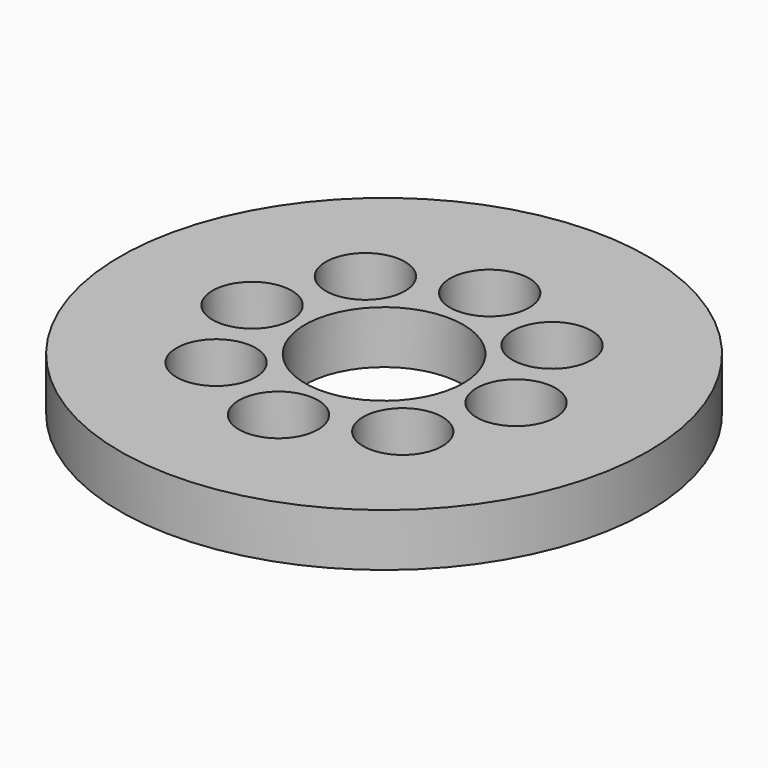
from build123d import *

# Parameters (mm, degrees)
F0_R      = 15.875
F0_R_2    = 4.7625
F1_DEPTH  = 3.175
F3_DEPTH  = 6.35
F4_R      = 15.875
F4_R_2    = 4.7625
F5_DEPTH  = 3.175
F6_R      = 2.38125
F7_DEPTH  = 25.4
F8_R      = 2.38125
F8_R_2    = 1.5875
F9_DEPTH  = 25.4
F10_DEPTH = 3.175
F11_DEPTH = 6.35


with BuildPart() as f1:
    # F0 (on Top) → F1 (new body)
    with BuildSketch(Plane.XY):
        Circle(F0_R)
        Circle(F0_R_2, mode=Mode.SUBTRACT)
    extrude(amount=F1_DEPTH)


with BuildPart() as f3:
    # F2 (on face) → F3 (new body)
    with BuildSketch(Plane.XY.offset(3.175)):
        with BuildLine():
            ThreePointArc((-2.38125, 5.1952741446), (0, 5.715), (2.38125, 5.1952741446))
            Line((2.38125, 5.1952741446), (2.38125, 6.35))
            Line((2.38125, 6.35), (-2.38125, 6.35))
            Line((-2.38125, 6.35), (-2.38125, 5.1952741446))
        make_face()
        with BuildLine():
            Line((2.38125, -6.35), (2.38125, -5.1952741446))
            ThreePointArc((2.38125, -5.1952741446), (0, -5.715), (-2.38125, -5.1952741446))
            Line((-2.38125, -5.1952741446), (-2.38125, -6.35))
            Line((-2.38125, -6.35), (2.38125, -6.35))
        make_face()
        with BuildLine():
            ThreePointArc((-2.38125, 4.1244459855), (0, 4.7625), (2.38125, 4.1244459855))
            Line((2.38125, 4.1244459855), (2.38125, 5.1952741446))
            ThreePointArc((2.38125, 5.1952741446), (0, 5.715), (-2.38125, 5.1952741446))
            Line((-2.38125, 5.1952741446), (-2.38125, 4.1244459855))
        make_face()
        with BuildLine():
            ThreePointArc((2.38125, 4.1244459855), (3.3675960454, 3.3675960454), (4.1244459855, 2.38125))
            Line((4.1244459855, 2.38125), (5.1952741446, 2.38125))
            ThreePointArc((5.1952741446, 2.38125), (4.0411152545, 4.0411152545), (2.38125, 5.1952741446))
            Line((2.38125, 5.1952741446), (2.38125, 4.1244459855))
        make_face()
        with BuildLine():
            ThreePointArc((-2.38125, 4.1244459855), (0, 4.7625), (2.38125, 4.1244459855))
            Line((2.38125, 4.1244459855), (2.38125, 5.1952741446))
            ThreePointArc((2.38125, 5.1952741446), (0, 5.715), (-2.38125, 5.1952741446))
            Line((-2.38125, 5.1952741446), (-2.38125, 4.1244459855))
        make_face()
        with BuildLine():
            ThreePointArc((2.38125, 4.1244459855), (3.3675960454, 3.3675960454), (4.1244459855, 2.38125))
            Line((4.1244459855, 2.38125), (5.1952741446, 2.38125))
            ThreePointArc((5.1952741446, 2.38125), (4.0411152545, 4.0411152545), (2.38125, 5.1952741446))
            Line((2.38125, 5.1952741446), (2.38125, 4.1244459855))
        make_face()
        with BuildLine():
            Line((2.38125, -5.1952741446), (2.38125, -4.1244459855))
            ThreePointArc((2.38125, -4.1244459855), (0, -4.7625), (-2.38125, -4.1244459855))
            Line((-2.38125, -4.1244459855), (-2.38125, -5.1952741446))
            ThreePointArc((-2.38125, -5.1952741446), (0, -5.715), (2.38125, -5.1952741446))
        make_face()
        with BuildLine():
            Line((-2.38125, -5.1952741446), (-2.38125, -4.1244459855))
            ThreePointArc((-2.38125, -4.1244459855), (-3.3675960454, -3.3675960454), (-4.1244459855, -2.38125))
            Line((-4.1244459855, -2.38125), (-5.1952741446, -2.38125))
            ThreePointArc((-5.1952741446, -2.38125), (-4.0411152545, -4.0411152545), (-2.38125, -5.1952741446))
        make_face()
        with BuildLine():
            ThreePointArc((-4.1244459855, -2.38125), (-4.7625, 0), (-4.1244459855, 2.38125))
            Line((-4.1244459855, 2.38125), (-5.1952741446, 2.38125))
            ThreePointArc((-5.1952741446, 2.38125), (-5.715, 0), (-5.1952741446, -2.38125))
            Line((-5.1952741446, -2.38125), (-4.1244459855, -2.38125))
        make_face()
        with BuildLine():
            ThreePointArc((-4.1244459855, 2.38125), (-3.3675960454, 3.3675960454), (-2.38125, 4.1244459855))
            Line((-2.38125, 4.1244459855), (-2.38125, 5.1952741446))
            ThreePointArc((-2.38125, 5.1952741446), (-4.0411152545, 4.0411152545), (-5.1952741446, 2.38125))
            Line((-5.1952741446, 2.38125), (-4.1244459855, 2.38125))
        make_face()
        with BuildLine():
            ThreePointArc((-5.1952741446, -2.38125), (-5.715, 0), (-5.1952741446, 2.38125))
            Line((-5.1952741446, 2.38125), (-6.35, 2.38125))
            Line((-6.35, 2.38125), (-6.35, -2.38125))
            Line((-6.35, -2.38125), (-5.1952741446, -2.38125))
        make_face()
    extrude(amount=F3_DEPTH)



with BuildPart() as f3b:
    # F2 (on face) → F3, piece 2 (new body)
    with BuildSketch(Plane.XY.offset(3.175)):
        with BuildLine():
            Line((6.35, 2.38125), (5.1952741446, 2.38125))
            ThreePointArc((5.1952741446, 2.38125), (5.5835569638, 1.2186536144), (5.715, 0))
            ThreePointArc((5.715, 0), (5.5835569638, -1.2186536144), (5.1952741446, -2.38125))
            Line((5.1952741446, -2.38125), (6.35, -2.38125))
            Line((6.35, -2.38125), (6.35, 2.38125))
        make_face()
    extrude(amount=F3_DEPTH)


with BuildPart() as f3_1:
    add(f3.part)

    add(f3b.part)  # F5 merges F3b
    # F4 (on face) → F5 (join)
    with BuildSketch(Plane.XY.offset(9.525)):
        Circle(F4_R)
        Circle(F4_R_2, mode=Mode.SUBTRACT)
    extrude(amount=F5_DEPTH)


with BuildPart() as f7_tool:
    # F6 (on face) → F7 (new body)
    with BuildSketch(Plane.XY.offset(12.7)):
        with Locations((-5.6126600757, 5.6126600757)):
            Circle(F6_R)
        with Locations((5.6126600757, -5.6126600757)):
            Circle(F6_R)
        with Locations((0, 7.9375)):
            Circle(F6_R)
        with Locations((5.6126600757, 5.6126600757)):
            Circle(F6_R)
        with Locations((7.9375, 0)):
            Circle(F6_R)
        with Locations((0, -7.9375)):
            Circle(F6_R)
        with Locations((-5.6126600757, -5.6126600757)):
            Circle(F6_R)
        with Locations((-7.9375, 0)):
            Circle(F6_R)
    extrude(amount=-F7_DEPTH)


with BuildPart() as f1_1:
    add(f1.part)

    # F7: cut by f7_tool
    add(f7_tool.part, mode=Mode.SUBTRACT)

    # F8 (on face) → F9 (cut)
    with BuildSketch(Plane(origin=(0, 0, 0), x_dir=(1, 0, 0), z_dir=(0, 0, -1))):
        with Locations((0, 7.9375)):
            Circle(F8_R)
        with Locations((0, 7.9375)):
            Circle(F8_R_2, mode=Mode.SUBTRACT)
        with Locations((5.6126600757, 5.6126600757)):
            Circle(F8_R)
        with Locations((5.6126600757, 5.6126600757)):
            Circle(F8_R_2, mode=Mode.SUBTRACT)
        with Locations((7.9375, 0)):
            Circle(F8_R)
        with Locations((7.9375, 0)):
            Circle(F8_R_2, mode=Mode.SUBTRACT)
        with Locations((5.6126600757, -5.6126600757)):
            Circle(F8_R)
        with Locations((5.6126600757, -5.6126600757)):
            Circle(F8_R_2, mode=Mode.SUBTRACT)
        with Locations((0, -7.9375)):
            Circle(F8_R)
        with Locations((0, -7.9375)):
            Circle(F8_R_2, mode=Mode.SUBTRACT)
        with Locations((-5.6126600757, -5.6126600757)):
            Circle(F8_R)
        with Locations((-5.6126600757, -5.6126600757)):
            Circle(F8_R_2, mode=Mode.SUBTRACT)
        with Locations((-7.9375, 0)):
            Circle(F8_R)
        with Locations((-7.9375, 0)):
            Circle(F8_R_2, mode=Mode.SUBTRACT)
        with Locations((-5.6126600757, 5.6126600757)):
            Circle(F8_R)
        with Locations((-5.6126600757, 5.6126600757)):
            Circle(F8_R_2, mode=Mode.SUBTRACT)
        with Locations((7.9375, 0)):
            Circle(F8_R_2)
        with Locations((5.6126600757, -5.6126600757)):
            Circle(F8_R_2)
        with Locations((0, -7.9375)):
            Circle(F8_R_2)
        with Locations((-5.6126600757, -5.6126600757)):
            Circle(F8_R_2)
        with Locations((-7.9375, 0)):
            Circle(F8_R_2)
        with Locations((-5.6126600757, 5.6126600757)):
            Circle(F8_R_2)
        with Locations((0, 7.9375)):
            Circle(F8_R_2)
        with Locations((5.6126600757, 5.6126600757)):
            Circle(F8_R_2)
    extrude(amount=-F9_DEPTH, mode=Mode.SUBTRACT)


with BuildPart() as f3_2:
    add(f3_1.part)

    # F7: cut by f7_tool
    add(f7_tool.part, mode=Mode.SUBTRACT)

    # F10 (cut): a face of the model
    f10_faces = [f3_2.faces().sort_by_distance(p)[0] for p in [
        (-15.4259871939, 0, 12.7),
    ]]
    extrude(f10_faces, amount=-F10_DEPTH, mode=Mode.SUBTRACT)

    # F11 (cut): faces of the model
    f11_faces = [f3_2.faces().sort_by_distance(p)[0] for p in [
        (5.820119134, -1.8463906572, 9.525),
        (-3.8074982703, -3.8074982703, 9.525),
        (5.820119134, 1.8463906572, 9.525),
    ]]
    extrude(f11_faces, amount=-F11_DEPTH, mode=Mode.SUBTRACT)


solid = f1_1.part
